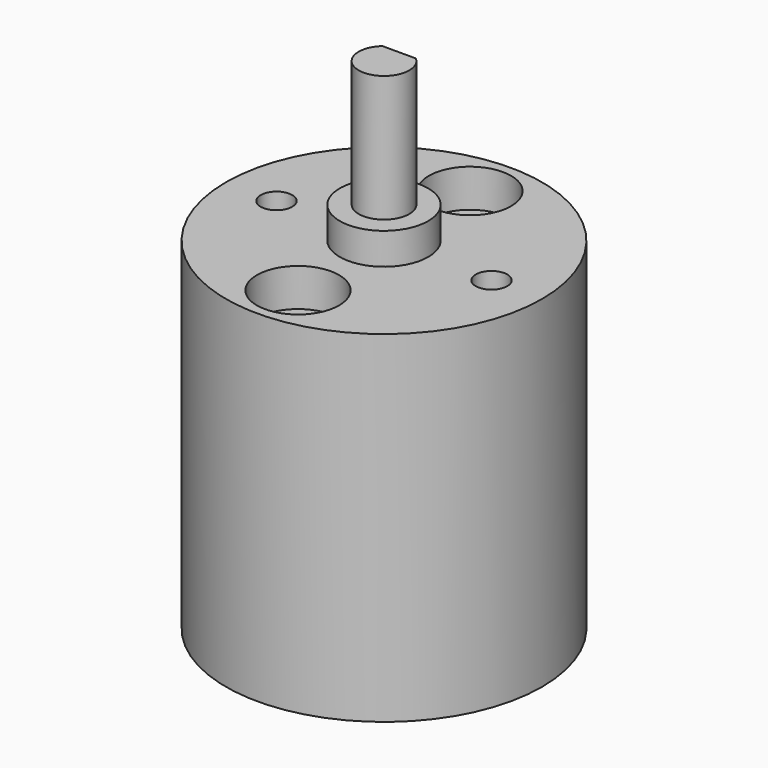
from build123d import *

# Parameters (mm, degrees)
F0_R           = 12.5
F1_DEPTH       = 27
F2_R           = 3.5
F3_DEPTH       = 2.5
F4_R           = 2
F5_DEPTH       = 10
F7_D           = 2.5
F7_DEPTH       = 8.5
F7_TIP         = 0.7510757738
F8_D           = 3.3
F8_CBORE_D     = 6.5
F8_CBORE_DEPTH = 3
F9_R           = 2.4
F10_DEPTH      = 6.5
F11_W          = 2.6457513111
F11_H          = 0.5
F12_DEPTH      = 9.5


with BuildPart() as f1:
    # F0 (on Top) → F1 (new body)
    with BuildSketch(Plane.XY):
        Circle(F0_R)
    extrude(amount=F1_DEPTH)

    # F2 (on face) → F3 (join)
    with BuildSketch(Plane.XY.offset(27)):
        Circle(F2_R)
    extrude(amount=F3_DEPTH)

    # F4 (on face) → F5 (join)
    with BuildSketch(Plane.XY.offset(29.5)):
        Circle(F4_R)
    extrude(amount=F5_DEPTH)

    # F7
    with Locations(Plane.XY.offset(27)):
        with Locations((-8.5, 0), (8.5, 0)):
            Hole(F7_D / 2, depth=F7_DEPTH)
            with Locations((0, 0, -(F7_DEPTH + F7_TIP / 2))):  # 118° drill point
                Cone(0, F7_D / 2, F7_TIP, mode=Mode.SUBTRACT)

    # F8 (through all)
    with Locations(Plane.XY.offset(27)):
        with Locations((0, 8.5), (0, -8.5)):
            CounterBoreHole(F8_D / 2, F8_CBORE_D / 2, F8_CBORE_DEPTH)

    # F9 (on face) → F10 (cut)
    with BuildSketch(Plane(origin=(0, 0, 0), x_dir=(1, 0, 0), z_dir=(0, 0, -1))):
        Circle(F9_R)
    extrude(amount=-F10_DEPTH, mode=Mode.SUBTRACT)

    # F11 (on face) → F12 (cut)
    with BuildSketch(Plane.XY.offset(39.5)):
        with Locations((0, 1.75)):
            Rectangle(F11_W, F11_H)
    extrude(amount=-F12_DEPTH, mode=Mode.SUBTRACT)


solid = f1.part
